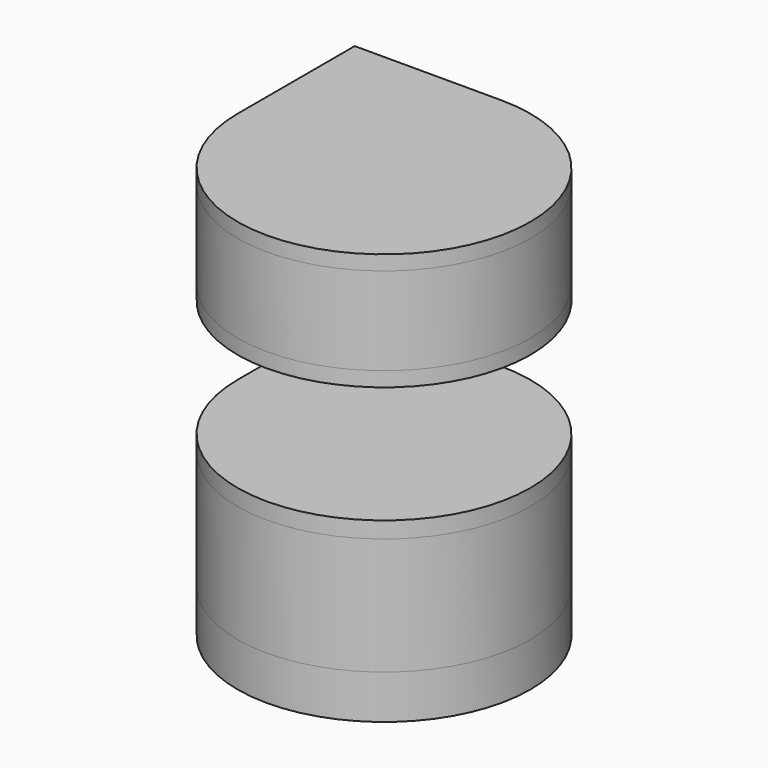
from build123d import *

# Parameters (mm, degrees)
F1_DEPTH = 75
F2_DEPTH = 200
F3_DEPTH = 3
F4_DEPTH = 25
F5_START = 200
F5_DEPTH = 25
F6_DEPTH = 150
F7_DEPTH = 25
F8_R     = 30
F9_DEPTH = 200


with BuildPart() as f1:
    # F0 (on Top) → F1 (new body)
    with BuildSketch(Plane.XY):
        with BuildLine():
            Line((-142.6838825658, 142.6838825658), (-142.6838825658, -107.3161174342))
            ThreePointArc((-142.6838825658, -107.3161174342), (284.0928127309, -284.0928127309), (107.3161174342, 142.6838825658))
            Line((107.3161174342, 142.6838825658), (-142.6838825658, 142.6838825658))
        make_face()
    extrude(amount=F1_DEPTH)


with BuildPart() as f2:
    # F2 (new): a face of the model
    f2_faces = [f1.part.faces().sort_by_distance(p)[0] for p in [
        (94.9012628159, -94.9012628159, 75),
    ]]
    extrude(f2_faces, amount=F2_DEPTH)


with BuildPart() as f3:
    # F3 (new): a face of the model
    f3_faces = [f2.part.faces().sort_by_distance(p)[0] for p in [
        (94.9012628159, -94.9012628159, 275),
    ]]
    extrude(f3_faces, amount=F3_DEPTH)

    # F4 (add): a face of the model
    f4_faces = [f3.faces().sort_by_distance(p)[0] for p in [
        (94.9012628159, -94.9012628159, 278),
    ]]
    extrude(f4_faces, amount=F4_DEPTH)


with BuildPart() as f5:
    # F4_face (on face) → F5 (new body)
    with BuildSketch(Plane(origin=(94.9012628159, -94.9012628159, 303), x_dir=(1, 0, 0), z_dir=(0, 0, 1)).offset(F5_START)):
        with BuildLine():
            Line((12.4148546184, 237.5851453816), (-237.5851453816, 237.5851453816))
            Line((-237.5851453816, 237.5851453816), (-237.5851453816, -12.4148546184))
            ThreePointArc((-237.5851453816, -12.4148546184), (189.191549915, -189.191549915), (12.4148546184, 237.5851453816))
        make_face()
    extrude(amount=F5_DEPTH)


with BuildPart() as f6:
    # F6 (new): a face of the model
    f6_faces = [f5.part.faces().sort_by_distance(p)[0] for p in [
        (94.9012628159, -94.9012628159, 528),
    ]]
    extrude(f6_faces, amount=F6_DEPTH)


with BuildPart() as f7:
    # F7 (new): a face of the model
    f7_faces = [f6.part.faces().sort_by_distance(p)[0] for p in [
        (94.9012628159, -94.9012628159, 678),
    ]]
    extrude(f7_faces, amount=F7_DEPTH)


with BuildPart() as f9:
    # F8 (on face) → F9 (new body, through all)
    with BuildSketch(Plane.XY.offset(303)):
        with Locations((-100.2574756946, 100.2574756946)):
            Circle(F8_R)
    extrude(amount=F9_DEPTH)


solid = Compound([f1.part, f2.part, f3.part, f5.part, f6.part, f7.part, f9.part])
